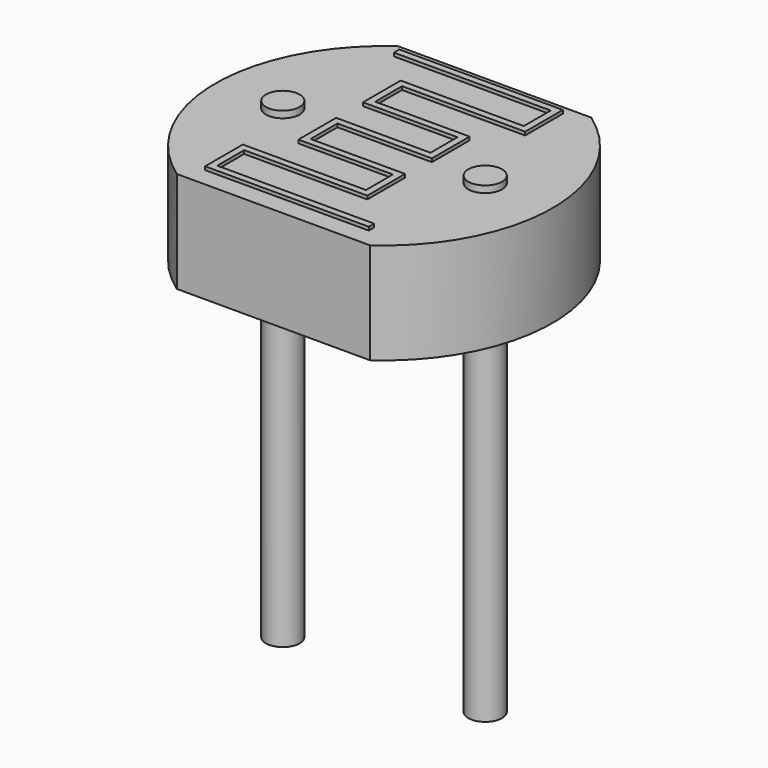
from build123d import *

# Parameters (mm, degrees)
PAD001_DEPTH   = 1.5
SKETCH_R       = 0.25
PAD_DEPTH      = 4
PAD_DEPTH_BACK = 3
PAD002_DEPTH   = 0.05


with BuildPart() as pad001:
    # Sketch001 → Pad001 (new body)
    with BuildSketch(Plane.XY.offset(3.9)):
        with BuildLine():
            ThreePointArc((0.069091, 2.05), (-1, 0), (0.069091, -2.05))
            Line((0.069091, -2.05), (2.930909, -2.05))
            ThreePointArc((2.930909, -2.05), (4, 0), (2.930909, 2.05))
            Line((0.069091, 2.05), (2.930909, 2.05))
        make_face()
    extrude(amount=-PAD001_DEPTH)


with BuildPart() as pad:
    # Sketch → Pad (new body, two sides)
    with BuildSketch(Plane.XY) as pad_sk:
        Circle(SKETCH_R)
        with Locations((3, 0)):
            Circle(SKETCH_R)
    extrude(amount=PAD_DEPTH)
    extrude(pad_sk.sketch, amount=-PAD_DEPTH_BACK)


with BuildPart() as obj1:
    # Sketch002 → Pad002 (new body)
    with BuildSketch(Plane.XY.offset(3.95)):
        Polygon((0.25, 1.745), (2.575, 1.745), (2.575, 1.246667), (0.75, 1.246667), (0.75, 1.146667), (0.75, 0.548333), (0.85, 0.548333), (2.15, 0.548333), (2.15, 0.05), (0.75, 0.05), (0.75, -0.05), (0.75, -0.648333), (0.85, -0.648333), (2.15, -0.648333), (2.15, -1.146667), (0.325, -1.146667), (0.325, -1.246667), (0.325, -1.845), (0.425, -1.845), (2.75, -1.845), (2.75, -1.745), (0.425, -1.745), (0.425, -1.246667), (2.15, -1.246667), (2.25, -1.246667), (2.25, -0.648333), (2.25, -0.548333), (0.85, -0.548333), (0.85, -0.05), (2.15, -0.05), (2.25, -0.05), (2.25, 0.548333), (2.25, 0.648333), (0.85, 0.648333), (0.85, 1.146667), (2.575, 1.146667), (2.675, 1.146667), (2.675, 1.745), (2.675, 1.845), (0.25, 1.845), align=None)
    extrude(amount=PAD002_DEPTH)

    add(pad001.part)
    add(pad.part)


solid = obj1.part
